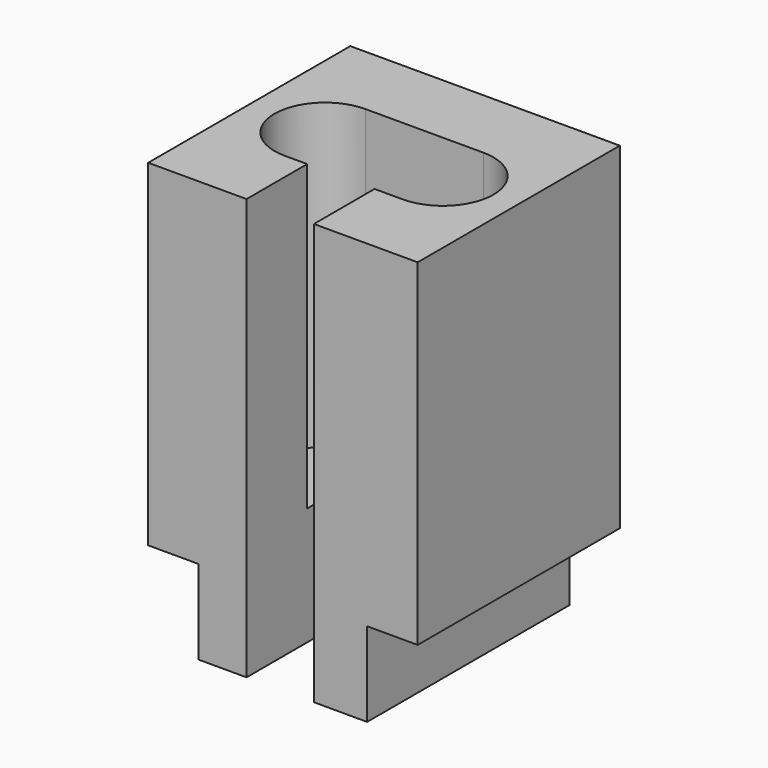
from build123d import *

# Parameters (mm, degrees)
SKETCH004_W  = 4
SKETCH004_H  = 60
PAD004_DEPTH = 7.5
PAD005_DEPTH = 30
SKETCH002_R  = 3
PAD006_DEPTH = 5
SKETCH003_R  = 2
PAD003_DEPTH = 40
PAD_DEPTH    = 7.5


with BuildPart() as pad004:
    # Sketch004 → Pad004 (new body, symmetric)
    with BuildSketch(Plane.XZ.offset(7.5)):
        with Locations((-0.160987, 0)):
            Rectangle(SKETCH004_W, SKETCH004_H)
    extrude(amount=PAD004_DEPTH, both=True)


with BuildPart() as pad005:
    # Sketch001 → Pad005 (new body)
    with BuildSketch(Plane(origin=(0, 0, 2), x_dir=(-1, 0, 0), z_dir=(0, 0, 1))):
        with BuildLine():
            ThreePointArc((-3.5, 3), (-6.5, 0), (-3.5, -3))
            Line((-3.5, -3), (3.5, -3))
            ThreePointArc((3.5, -3), (6.5, 0), (3.5, 3))
            Line((-3.5, 3), (3.5, 3))
        make_face()
    extrude(amount=PAD005_DEPTH)


with BuildPart() as pad006:
    # Sketch002 → Pad006 (new body, symmetric)
    with BuildSketch(Plane.XY.offset(2)):
        Circle(SKETCH002_R)
    extrude(amount=PAD006_DEPTH, both=True)


with BuildPart() as fusion:
    # Sketch003 → Pad003 (new body, symmetric)
    with BuildSketch(Plane.XY.offset(2)):
        Circle(SKETCH003_R)
    extrude(amount=PAD003_DEPTH, both=True)

    # Fusion: union Pad004, Pad005, Pad006
    add(pad004.part)
    add(pad005.part)
    add(pad006.part)


with BuildPart() as cut:
    # Sketch → Pad (new body, symmetric)
    with BuildSketch(Plane.XZ):
        Polygon((-8, 20), (-8, 0), (-5, 0), (-5, -5), (5, -5), (5, 0), (8, 0), (8, 20), align=None)
    extrude(amount=PAD_DEPTH, both=True)

    # Cut: cut Fusion
    add(fusion.part, mode=Mode.SUBTRACT)


solid = cut.part
